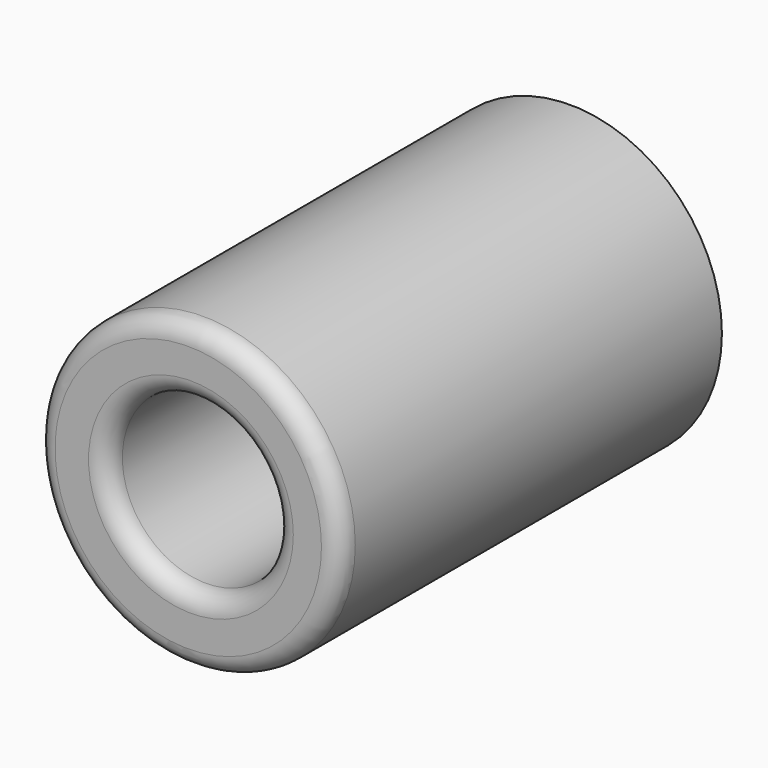
from build123d import *

# Parameters (mm, degrees)
F0_R     = 40.456666
F0_R_2   = 22.253777
F1_DEPTH = 127
F2_DEPTH = 50
F3_R     = 5
F4_R     = 5


with BuildPart() as f1:
    # F0 (on Front) → F1 (new body)
    with BuildSketch(Plane.XZ):
        with Locations((-0.708535, -0.357763)):
            Circle(F0_R)
        Circle(F0_R_2, mode=Mode.SUBTRACT)
    extrude(amount=F1_DEPTH)

    # F0 (on Front) → F2 (join)
    with BuildSketch(Plane.XZ):
        with Locations((-0.708535, -0.357763)):
            Circle(F0_R)
        Circle(F0_R_2, mode=Mode.SUBTRACT)
    extrude(amount=F2_DEPTH)

    # F3
    f3_edges = [f1.edges().sort_by_distance(p)[0] for p in [
        (-41.165201, -127, -0.357763),
    ]]
    fillet(f3_edges, radius=F3_R)

    # F4
    f4_edges = [f1.edges().sort_by_distance(p)[0] for p in [
        (-22.253777, -127, 0),
    ]]
    fillet(f4_edges, radius=F4_R)


solid = f1.part
